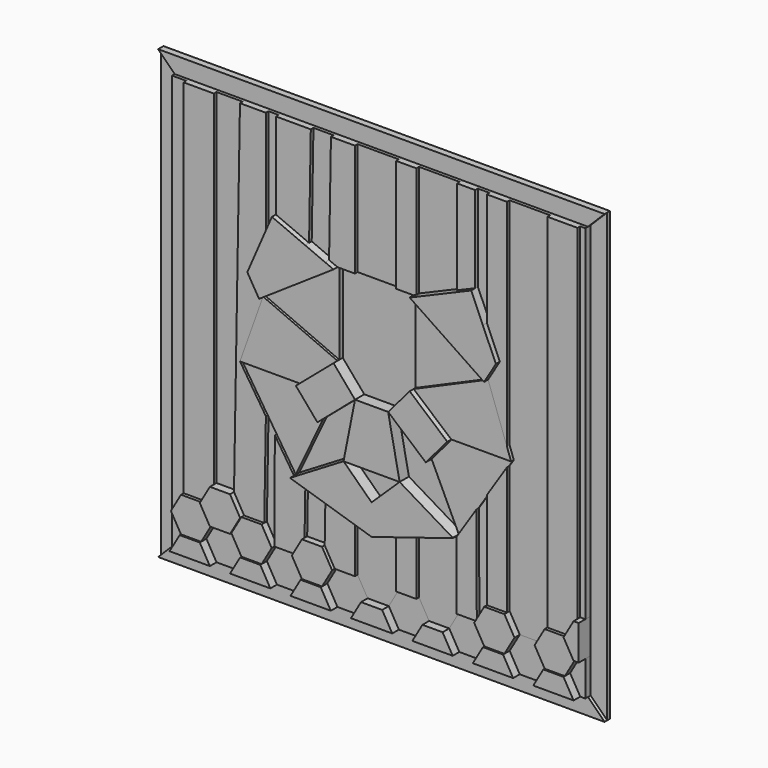
from build123d import *

# Parameters (mm, degrees)
F1_DEPTH  = 2.54
F2_DEPTH  = 5.08
F0_W      = 3.925468
F0_H      = 263.966185
F3_DEPTH  = 7.62
F4_DEPTH  = 10.16
F5_DEPTH  = 7.62
F6_DEPTH  = 12.7
F7_DEPTH  = 13.97
F8_DEPTH  = 5.08
F9_DEPTH  = 10.16
F10_DEPTH = 8.382


with BuildPart() as f1:
    # F0 (on Front) → F1 (new body)
    with BuildSketch(Plane.XZ):
        Polygon((-158.085189, 174.305682), (-170.785189, 187.005682), (-170.785189, -155.894318), (-158.085189, -143.194318), (-158.085189, -116.427411), align=None)
        Polygon((171.54337, -155.894318), (171.54337, 187.005682), (158.84337, 174.305682), (158.84337, -89.660503), (158.84337, -116.427411), (158.84337, -143.194318), align=None)
    extrude(amount=F1_DEPTH)


with BuildPart() as f2:
    # F0 (on Front) → F2 (new body)
    with BuildSketch(Plane.XZ):
        Polygon((171.54337, 187.005682), (-170.785189, 187.005682), (-158.085189, 174.305682), (-147.190961, 174.305682), (-124.01014, 174.305682), (-103.985548, 174.305682), (-84.12029, 174.305682), (-76.429727, 174.305682), (-49.665223, 174.305682), (-34.211342, 174.305682), (-15.832972, 174.305682), (15.832972, 174.305682), (31.286853, 174.305682), (62.579502, 174.305682), (76.429727, 174.305682), (85.375437, 174.305682), (100.829318, 174.305682), (131.73708, 174.305682), (154.917902, 174.305682), (158.84337, 174.305682), align=None)
        Polygon((-158.085189, -143.194318), (-170.785189, -155.894318), (171.54337, -155.894318), (158.84337, -143.194318), (154.917902, -143.194318), (124.01014, -143.194318), (108.556259, -143.194318), (77.648496, -143.194318), (62.194615, -143.194318), (31.286853, -143.194318), (15.832972, -143.194318), (-15.07479, -143.194318), (-15.832972, -143.194318), (-31.286853, -143.194318), (-62.194615, -143.194318), (-77.648496, -143.194318), (-108.556259, -143.194318), (-124.01014, -143.194318), (-154.917902, -143.194318), align=None)
    extrude(amount=F2_DEPTH)


with BuildPart() as f3:
    # F0 (on Front) → F3 (new body)
    with BuildSketch(Plane.XZ):
        Polygon((-147.190961, 174.305682), (-158.085189, 174.305682), (-158.085189, -116.427411), (-154.917902, -116.427411), (-147.190961, -103.043957), align=None)
        Polygon((-103.985548, 174.305682), (-124.01014, 174.305682), (-124.01014, -89.660503), (-108.556259, -89.660503), align=None)
        Polygon((-76.429727, 174.305682), (-84.12029, 174.305682), (-84.12029, 90.360314), (-76.429727, 108.073879), align=None)
        Polygon((-34.211342, 174.305682), (-49.665223, 174.305682), (-50.999935, 97.223833), (-35.659389, 90.678533), align=None)
        Polygon((15.832972, 174.305682), (-15.832972, 174.305682), (-15.832972, 87.926794), (0, 87.926794), (15.832972, 87.926794), align=None)
        Polygon((62.483944, 102.123677), (62.579502, 174.305682), (31.286853, 174.305682), (31.286853, 88.812918), align=None)
        Polygon((85.375437, 87.469353), (85.375437, 174.305682), (76.429727, 174.305682), (76.429727, 108.073879), align=None)
        Polygon((131.73708, -103.043957), (131.73708, 174.305682), (100.829318, 174.305682), (100.829318, 8.827418), (103.985548, 0), (100.829318, -4.854976), (100.829318, -103.043957), (108.556259, -116.427411), (124.01014, -116.427411), align=None)
        Polygon((85.375437, -103.043957), (85.375437, -28.626445), (77.239782, -41.140872), (77.648496, -116.427411), align=None)
        Polygon((39.013794, -129.810864), (54.467675, -129.810864), (62.194615, -116.427411), (62.2643, -63.78959), (31.286853, -73.419182), (31.286853, -116.427411), align=None)
        Polygon((-15.832972, -116.427411), (-8.106031, -129.810864), (8.106031, -129.810864), (15.832972, -116.427411), (15.832972, -78.223147), (0, -83.144955), (-15.832972, -78.223147), align=None)
        Polygon((-53.833346, -66.410421), (-54.467675, -103.043957), (-39.013794, -103.043957), (-38.462203, -71.188666), align=None)
        Polygon((-84.12029, -30.557136), (-85.375437, -103.043957), (-77.648496, -116.427411), (-77.239782, -41.140872), align=None)
        with Locations((156.880636, 42.322589)):
            Rectangle(F0_W, F0_H)
    extrude(amount=F3_DEPTH)


with BuildPart() as f4:
    # F0 (on Front) → F4 (new body)
    with BuildSketch(Plane.XZ):
        Polygon((-124.01014, 174.305682), (-147.190961, 174.305682), (-147.190961, -103.043957), (-131.73708, -103.043957), (-124.01014, -89.660503), align=None)
        Polygon((-84.12029, 174.305682), (-103.985548, 174.305682), (-108.556259, -89.660503), (-100.829318, -103.043957), (-85.375437, -103.043957), (-84.12029, -30.557136), (-103.985548, 0), (-86.286075, 49.502299), (-95.317612, 64.569682), (-84.12029, 90.360314), align=None)
        Polygon((-49.665223, 174.305682), (-76.429727, 174.305682), (-76.429727, 108.073879), (-50.999935, 97.223833), align=None)
        Polygon((-15.832972, 174.305682), (-34.211342, 174.305682), (-35.659389, 90.678533), (-29.21, 87.926794), (-15.832972, 87.926794), align=None)
        Polygon((31.286853, 88.812918), (31.286853, 174.305682), (15.832972, 174.305682), (15.832972, 87.926794), (29.21, 87.926794), align=None)
        Polygon((76.429727, 108.073879), (76.429727, 174.305682), (62.579502, 174.305682), (62.483944, 102.123677), align=None)
        Polygon((100.829318, 8.827418), (100.829318, 174.305682), (85.375437, 174.305682), (85.375437, 87.469353), (95.317612, 64.569682), (86.286075, 49.502299), align=None)
        Polygon((154.917902, -89.660503), (154.917902, 174.305682), (131.73708, 174.305682), (131.73708, -103.043957), (147.190961, -103.043957), align=None)
        Polygon((100.829318, -103.043957), (100.829318, -4.854976), (85.375437, -28.626445), (85.375437, -103.043957), align=None)
        Polygon((62.194615, -116.427411), (77.648496, -116.427411), (77.239782, -41.140872), (62.579502, -63.691607), (62.2643, -63.78959), align=None)
        Polygon((15.832972, -116.427411), (31.286853, -116.427411), (31.286853, -73.419182), (15.832972, -78.223147), align=None)
        Polygon((-39.013794, -103.043957), (-31.286853, -116.427411), (-15.832972, -116.427411), (-15.832972, -78.223147), (-38.462203, -71.188666), align=None)
        Polygon((-77.239782, -41.140872), (-77.648496, -116.427411), (-62.194615, -116.427411), (-54.467675, -103.043957), (-53.833346, -66.410421), (-62.579502, -63.691607), align=None)
    extrude(amount=F4_DEPTH)


with BuildPart() as f5:
    # F0 (on Front) → F5 (new body)
    with BuildSketch(Plane.XZ):
        Polygon((-158.085189, -116.427411), (-158.085189, -143.194318), (-154.917902, -143.194318), (-147.190961, -129.810864), (-154.917902, -116.427411), align=None)
        Polygon((-131.73708, -129.810864), (-124.01014, -143.194318), (-108.556259, -143.194318), (-100.829318, -129.810864), (-108.556259, -116.427411), (-124.01014, -116.427411), align=None)
        Polygon((-85.375437, -129.810864), (-77.648496, -143.194318), (-62.194615, -143.194318), (-54.467675, -129.810864), (-62.194615, -116.427411), (-77.648496, -116.427411), align=None)
        Polygon((-39.013794, -129.810864), (-31.286853, -143.194318), (-15.832972, -143.194318), (-8.106031, -129.810864), (-15.832972, -116.427411), (-31.286853, -116.427411), align=None)
        Polygon((15.832972, -143.194318), (31.286853, -143.194318), (39.013794, -129.810864), (31.286853, -116.427411), (15.832972, -116.427411), (8.106031, -129.810864), align=None)
        Polygon((62.194615, -143.194318), (77.648496, -143.194318), (85.375437, -129.810864), (77.648496, -116.427411), (62.194615, -116.427411), (54.467675, -129.810864), align=None)
        Polygon((108.556259, -143.194318), (124.01014, -143.194318), (131.73708, -129.810864), (124.01014, -116.427411), (108.556259, -116.427411), (100.829318, -129.810864), align=None)
        Polygon((154.917902, -143.194318), (158.84337, -143.194318), (158.84337, -116.427411), (154.917902, -116.427411), (147.190961, -129.810864), align=None)
    extrude(amount=F5_DEPTH)


with BuildPart() as f6:
    # F0 (on Front) → F6 (new body)
    with BuildSketch(Plane.XZ):
        Polygon((-131.73708, -103.043957), (-147.190961, -103.043957), (-154.917902, -116.427411), (-147.190961, -129.810864), (-131.73708, -129.810864), (-124.01014, -116.427411), align=None)
        Polygon((-108.556259, -116.427411), (-100.829318, -129.810864), (-85.375437, -129.810864), (-77.648496, -116.427411), (-85.375437, -103.043957), (-100.829318, -103.043957), align=None)
        Polygon((-62.194615, -116.427411), (-54.467675, -129.810864), (-39.013794, -129.810864), (-31.286853, -116.427411), (-39.013794, -103.043957), (-54.467675, -103.043957), align=None)
        Polygon((100.829318, -129.810864), (108.556259, -116.427411), (100.829318, -103.043957), (85.375437, -103.043957), (77.648496, -116.427411), (85.375437, -129.810864), align=None)
        Polygon((147.190961, -103.043957), (131.73708, -103.043957), (124.01014, -116.427411), (131.73708, -129.810864), (147.190961, -129.810864), (154.917902, -116.427411), align=None)
    extrude(amount=F6_DEPTH)


with BuildPart() as f7:
    # F0 (on Front) → F7 (new body)
    with BuildSketch(Plane.XZ):
        Polygon((-147.190961, -129.810864), (-154.917902, -143.194318), (-124.01014, -143.194318), (-131.73708, -129.810864), align=None)
        Polygon((-108.556259, -89.660503), (-124.01014, -89.660503), (-131.73708, -103.043957), (-124.01014, -116.427411), (-108.556259, -116.427411), (-100.829318, -103.043957), align=None)
        Polygon((-100.829318, -129.810864), (-108.556259, -143.194318), (-77.648496, -143.194318), (-85.375437, -129.810864), align=None)
        Polygon((-54.467675, -129.810864), (-62.194615, -143.194318), (-31.286853, -143.194318), (-39.013794, -129.810864), align=None)
        Polygon((-8.106031, -129.810864), (-15.832972, -143.194318), (-15.07479, -143.194318), (15.832972, -143.194318), (8.106031, -129.810864), align=None)
        Polygon((31.286853, -143.194318), (62.194615, -143.194318), (54.467675, -129.810864), (39.013794, -129.810864), align=None)
        Polygon((77.648496, -143.194318), (108.556259, -143.194318), (100.829318, -129.810864), (85.375437, -129.810864), align=None)
        Polygon((124.01014, -143.194318), (154.917902, -143.194318), (147.190961, -129.810864), (131.73708, -129.810864), align=None)
        Polygon((158.84337, -116.427411), (158.84337, -89.660503), (154.917902, -89.660503), (147.190961, -103.043957), (154.917902, -116.427411), align=None)
        Polygon((21.508431, -39.073206), (12.7, 5.376794), (0, 5.376794), (-12.7, 5.376794), (-21.508431, -39.073206), (0, -39.073206), align=None)
        Polygon((41.553091, -19.302329), (58.063091, 0), (29.21, 24.679122), (12.7, 5.376794), align=None)
        Polygon((-12.7, 5.376794), (-29.21, 24.679122), (-58.063091, 0), (-41.553091, -19.302329), align=None)
        Polygon((95.317612, 64.569682), (85.375437, 87.469353), (76.429727, 108.073879), (62.483944, 102.123677), (31.286853, 88.812918), (29.21, 87.926794), (85.375437, 50.115355), (86.286075, 49.502299), align=None)
        Polygon((-76.429727, 108.073879), (-84.12029, 90.360314), (-95.317612, 64.569682), (-86.286075, 49.502299), (-29.21, 87.926794), (-35.659389, 90.678533), (-50.999935, 97.223833), align=None)
        Polygon((-21.508431, -39.073206), (-62.579502, -63.691607), (-53.833346, -66.410421), (-38.462203, -71.188666), (-15.832972, -78.223147), (0, -83.144955), (0, -59.849888), align=None)
        Polygon((62.264679, -63.5029), (21.508431, -39.073206), (0, -59.849888), (0, -83.144955), (15.832972, -78.223147), (31.286853, -73.419182), (62.2643, -63.78959), align=None)
    extrude(amount=F7_DEPTH)


with BuildPart() as f8:
    # F0 (on Front) → F8 (new body)
    with BuildSketch(Plane.XZ):
        Polygon((12.7, 5.376794), (29.21, 24.679122), (29.21, 87.926794), (15.832972, 87.926794), (0, 87.926794), (-15.832972, 87.926794), (-29.21, 87.926794), (-29.21, 24.679122), (-12.7, 5.376794), (0, 5.376794), align=None)
        Polygon((-41.553091, -19.302329), (-62.579502, -63.691607), (-21.508431, -39.073206), (-12.7, 5.376794), align=None)
        Polygon((62.265308, -63.028306), (41.553091, -19.302329), (12.7, 5.376794), (21.508431, -39.073206), (62.264679, -63.5029), align=None)
        Polygon((0, -59.849888), (21.508431, -39.073206), (0, -39.073206), (-21.508431, -39.073206), align=None)
    extrude(amount=F8_DEPTH)


with BuildPart() as f9:
    # F0 (on Front) → F9 (new body)
    with BuildSketch(Plane.XZ):
        Polygon((-29.21, 24.679122), (-86.286075, 49.502299), (-103.985548, 0), (-58.063091, 0), align=None)
        Polygon((103.985548, 0), (100.829318, 8.827418), (86.286075, 49.502299), (85.375437, 49.106249), (29.21, 24.679122), (58.063091, 0), align=None)
    extrude(amount=F9_DEPTH)


with BuildPart() as f10:
    # F0 (on Front) → F10 (new body)
    with BuildSketch(Plane.XZ):
        Polygon((-29.21, 87.926794), (-86.286075, 49.502299), (-29.21, 24.679122), align=None)
        Polygon((-103.985548, 0), (-84.12029, -30.557136), (-77.239782, -41.140872), (-62.579502, -63.691607), (-41.553091, -19.302329), (-58.063091, 0), align=None)
        Polygon((29.21, 24.679122), (85.375437, 49.106249), (85.375437, 50.115355), (29.21, 87.926794), align=None)
        Polygon((100.829318, -4.854976), (103.985548, 0), (58.063091, 0), (41.553091, -19.302329), (62.265308, -63.028306), (62.579502, -63.691607), (77.239782, -41.140872), (85.375437, -28.626445), align=None)
    extrude(amount=F10_DEPTH)


solid = Compound([f1.part, f2.part, f3.part, f4.part, f5.part, f6.part, f7.part, f8.part, f9.part, f10.part])
